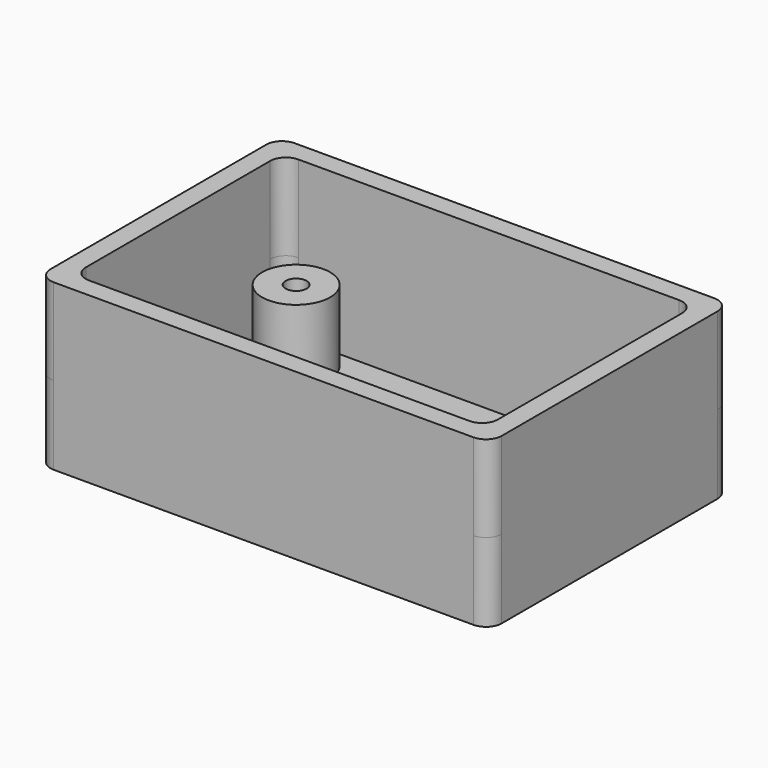
from build123d import *

# Parameters (mm, degrees)
F0_W      = 145.814352
F0_H      = 97.318382
F0_W_2    = 133.114352
F0_H_2    = 84.618382
F1_DEPTH  = 25.4
F0_R      = 10.988187
F2_DEPTH  = 2.286
F0_R_2    = 3.402604
F3_DEPTH  = 25.4
F4_DEPTH  = 25.4
F5_DEPTH  = 25.4
F6_R      = 5.08
F7_R      = 5.08
F8_R      = 5.08
F9_R      = 5.08
F10_R     = 5.08
F11_R     = 5.08
F12_R     = 5.08
F13_DEPTH = 27.94


with BuildPart() as f1:
    # F0 (on Top) → F1 (new body)
    with BuildSketch(Plane.XY):
        Rectangle(F0_W, F0_H)
        Rectangle(F0_W_2, F0_H_2, mode=Mode.SUBTRACT)
    extrude(amount=F1_DEPTH)

    # F0 (on Top) → F2 (join)
    with BuildSketch(Plane.XY):
        Rectangle(F0_W_2, F0_H_2)
        with Locations((-52.712649, -30.396467)):
            Circle(F0_R, mode=Mode.SUBTRACT)
        with Locations((52.712649, -30.396467)):
            Circle(F0_R, mode=Mode.SUBTRACT)
        with Locations((-52.712649, 30.396467)):
            Circle(F0_R, mode=Mode.SUBTRACT)
        with Locations((52.712649, 30.396467)):
            Circle(F0_R, mode=Mode.SUBTRACT)
    extrude(amount=F2_DEPTH)

    # F0 (on Top) → F3 (join)
    with BuildSketch(Plane.XY):
        with Locations((-52.712649, 30.396467)):
            Circle(F0_R)
        with Locations((-52.712649, 30.396467)):
            Circle(F0_R_2, mode=Mode.SUBTRACT)
    extrude(amount=F3_DEPTH)

    # F0 (on Top) → F4 (join)
    with BuildSketch(Plane.XY):
        with Locations((52.712649, 30.396467)):
            Circle(F0_R)
        with Locations((52.712649, 30.396467)):
            Circle(F0_R_2, mode=Mode.SUBTRACT)
    extrude(amount=F4_DEPTH)

    # F0 (on Top) → F5 (join)
    with BuildSketch(Plane.XY):
        with Locations((-52.712649, -30.396467)):
            Circle(F0_R)
        with Locations((-52.712649, -30.396467)):
            Circle(F0_R_2, mode=Mode.SUBTRACT)
        with Locations((52.712649, -30.396467)):
            Circle(F0_R)
        with Locations((52.712649, -30.396467)):
            Circle(F0_R_2, mode=Mode.SUBTRACT)
    extrude(amount=F5_DEPTH)

    # F6
    f6_edges = [f1.edges().sort_by_distance(p)[0] for p in [
        (-72.907176, -48.659191, 12.7),
        (72.907176, -48.659191, 12.7),
    ]]
    fillet(f6_edges, radius=F6_R)

    # F7
    f7_edges = [f1.edges().sort_by_distance(p)[0] for p in [
        (-66.557176, 42.309191, 13.843),
    ]]
    fillet(f7_edges, radius=F7_R)

    # F8
    f8_edges = [f1.edges().sort_by_distance(p)[0] for p in [
        (72.907176, 48.659191, 12.7),
    ]]
    fillet(f8_edges, radius=F8_R)

    # F9
    f9_edges = [f1.edges().sort_by_distance(p)[0] for p in [
        (-72.907176, 48.659191, 12.7),
    ]]
    fillet(f9_edges, radius=F9_R)

    # F10
    f10_edges = [f1.edges().sort_by_distance(p)[0] for p in [
        (66.557176, -42.309191, 13.843),
    ]]
    fillet(f10_edges, radius=F10_R)

    # F11
    f11_edges = [f1.edges().sort_by_distance(p)[0] for p in [
        (66.557176, 42.309191, 13.843),
    ]]
    fillet(f11_edges, radius=F11_R)

    # F12
    f12_edges = [f1.edges().sort_by_distance(p)[0] for p in [
        (-66.557176, -42.309191, 13.843),
    ]]
    fillet(f12_edges, radius=F12_R)

    # F1_face (on face) → F13 (join)
    with BuildSketch(Plane.XY.offset(25.4)):
        with BuildLine():
            Line((67.827176, 48.659191), (-67.827176, 48.659191))
            ThreePointArc((-67.827176, 48.659191), (-71.419279, 47.171294), (-72.907176, 43.579191))
            Line((-72.907176, 43.579191), (-72.907176, -43.579191))
            ThreePointArc((-72.907176, -43.579191), (-71.419279, -47.171294), (-67.827176, -48.659191))
            Line((-67.827176, -48.659191), (67.827176, -48.659191))
            ThreePointArc((67.827176, -48.659191), (71.419279, -47.171294), (72.907176, -43.579191))
            Line((72.907176, -43.579191), (72.907176, 43.579191))
            ThreePointArc((72.907176, 43.579191), (71.419279, 47.171294), (67.827176, 48.659191))
        make_face()
        with BuildLine():
            Line((61.477176, -42.309191), (-61.477176, -42.309191))
            ThreePointArc((-61.477176, -42.309191), (-65.069279, -40.821294), (-66.557176, -37.229191))
            Line((-66.557176, -37.229191), (-66.557176, 37.229191))
            ThreePointArc((-66.557176, 37.229191), (-65.069279, 40.821294), (-61.477176, 42.309191))
            Line((-61.477176, 42.309191), (61.477176, 42.309191))
            ThreePointArc((61.477176, 42.309191), (65.069279, 40.821294), (66.557176, 37.229191))
            Line((66.557176, 37.229191), (66.557176, -37.229191))
            ThreePointArc((66.557176, -37.229191), (65.069279, -40.821294), (61.477176, -42.309191))
        make_face(mode=Mode.SUBTRACT)
    extrude(amount=F13_DEPTH)


solid = f1.part
